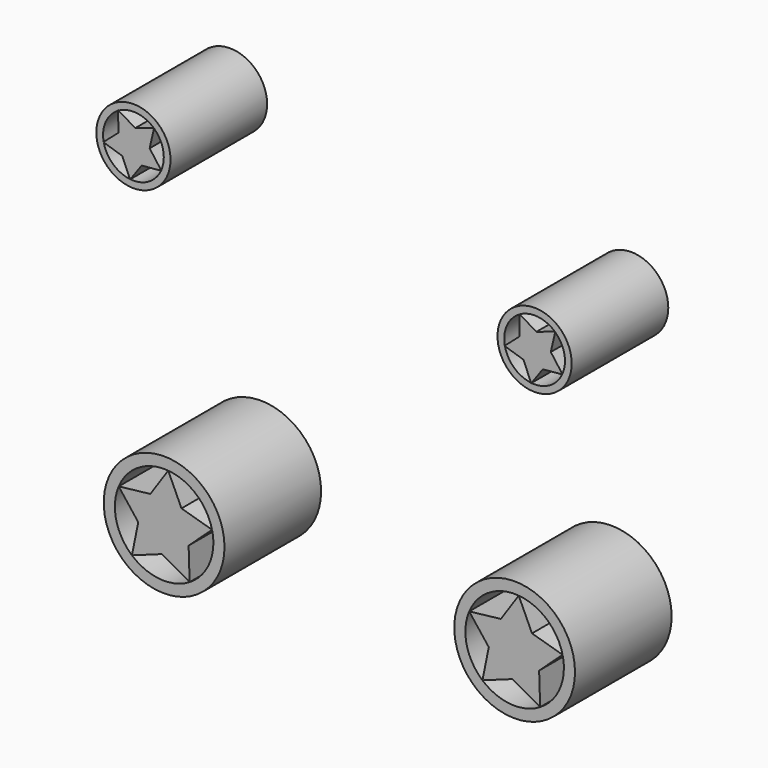
from build123d import *

# Parameters (mm, degrees)
F0_R     = 7.8035976044
F1_DEPTH = 25.4
F0_R_2   = 12.7


with BuildPart() as f1:
    # F0 (on Front) → F1 (new body)
    with BuildSketch(Plane.XZ):
        with Locations((-47.0211860416, 42.674090528)):
            Circle(F0_R)
        with BuildLine():
            ThreePointArc((-42.6920368305, 47.3722329839), (-41.1700651022, 45.238941241), (-40.6325965707, 42.674090528))
            ThreePointArc((-40.6325965707, 42.674090528), (-40.7710648077, 41.3511921991), (-41.1804671129, 40.085639674))
            Line((-41.1804671129, 40.085639674), (-41.1293756872, 40.0162519683))
            Line((-41.1293756872, 40.0162519683), (-41.2152063671, 40.0086308216))
            ThreePointArc((-41.2152063671, 40.0086308216), (-43.8540138331, 37.1258389449), (-47.6780676851, 36.319361428))
            Line((-47.6780676851, 36.319361428), (-47.7282711959, 36.2493286144))
            Line((-47.7282711959, 36.2493286144), (-47.7620424759, 36.3286033779))
            ThreePointArc((-47.7620424759, 36.3286033779), (-51.3191768273, 37.9474267326), (-53.2678801526, 41.3351028089))
            Line((-53.2678801526, 41.3351028089), (-53.3499990543, 41.3612078554))
            Line((-53.3499990543, 41.3612078554), (-53.2850401734, 41.4178235005))
            ThreePointArc((-53.2850401734, 41.4178235005), (-52.844662639, 45.3011032322), (-50.2249736761, 48.2012797071))
            Line((-50.2249736761, 48.2012797071), (-50.2255224376, 48.2874463267))
            Line((-50.2255224376, 48.2874463267), (-50.1516043614, 48.2431619561))
            ThreePointArc((-50.1516043614, 48.2431619561), (-46.3223017258, 49.0243374634), (-42.7545415815, 47.429069022))
            Line((-42.7545415815, 47.429069022), (-42.672761833, 47.4562178751))
            Line((-42.672761833, 47.4562178751), (-42.6920368305, 47.3722329839))
        make_face(mode=Mode.SUBTRACT)
    extrude(amount=F1_DEPTH)


with BuildPart() as f1b:
    # F0 (on Front) → F1, piece 2 (new body)
    with BuildSketch(Plane.XZ):
        with BuildLine():
            ThreePointArc((-41.2152063671, 40.0086308216), (-41.1977094443, 40.0470778238), (-41.1804671129, 40.085639674))
            Line((-41.1804671129, 40.085639674), (-43.6077745206, 43.3821867905))
            ThreePointArc((-43.6077745206, 43.3821867905), (-43.5533180881, 43.0299983605), (-43.5351024901, 42.674090528))
            ThreePointArc((-43.5351024901, 42.674090528), (-44.0064245578, 40.9236643729), (-45.2929443083, 39.6465570369))
            Line((-45.2929443083, 39.6465570369), (-41.2152063671, 40.0086308216))
        make_face()
        with BuildLine():
            ThreePointArc((-43.5351024901, 42.674090528), (-43.5533180881, 43.0299983605), (-43.6077745206, 43.3821867905))
            ThreePointArc((-43.6077745206, 43.3821867905), (-44.6758866526, 45.25330539), (-46.6398234374, 46.1392515766))
            ThreePointArc((-46.6398234374, 46.1392515766), (-48.749427775, 45.7016240191), (-50.1989025112, 44.10758157))
            ThreePointArc((-50.1989025112, 44.10758157), (-50.4345975626, 41.9659942655), (-49.3664854306, 40.094875666))
            ThreePointArc((-49.3664854306, 40.094875666), (-47.4025486458, 39.2089294794), (-45.2929443083, 39.6465570369))
            ThreePointArc((-45.2929443083, 39.6465570369), (-44.0064245578, 40.9236643729), (-43.5351024901, 42.674090528))
        make_face()
        with BuildLine():
            ThreePointArc((-47.7620424759, 36.3286033779), (-47.7200703574, 36.3238435925), (-47.6780676851, 36.319361428))
            Line((-47.6780676851, 36.319361428), (-45.2929443083, 39.6465570369))
            ThreePointArc((-45.2929443083, 39.6465570369), (-47.4025486458, 39.2089294794), (-49.3664854306, 40.094875666))
            Line((-49.3664854306, 40.094875666), (-47.7620424759, 36.3286033779))
        make_face()
        with BuildLine():
            ThreePointArc((-49.3664854306, 40.094875666), (-50.4345975626, 41.9659942655), (-50.1989025112, 44.10758157))
            Line((-50.1989025112, 44.10758157), (-53.2850401734, 41.4178235005))
            ThreePointArc((-53.2850401734, 41.4178235005), (-53.2765969004, 41.3764347891), (-53.2678801526, 41.3351028089))
            Line((-53.2678801526, 41.3351028089), (-49.3664854306, 40.094875666))
        make_face()
        with BuildLine():
            Line((-46.6398234374, 46.1392515766), (-50.1516043614, 48.2431619561))
            ThreePointArc((-50.1516043614, 48.2431619561), (-50.1883582501, 48.2223421111), (-50.2249736761, 48.2012797071))
            Line((-50.2249736761, 48.2012797071), (-50.1989025112, 44.10758157))
            ThreePointArc((-50.1989025112, 44.10758157), (-48.749427775, 45.7016240191), (-46.6398234374, 46.1392515766))
        make_face()
        with BuildLine():
            Line((-43.6077745206, 43.3821867905), (-42.6920368305, 47.3722329839))
            ThreePointArc((-42.6920368305, 47.3722329839), (-42.723195256, 47.4007543234), (-42.7545415815, 47.429069022))
            Line((-42.7545415815, 47.429069022), (-46.6398234374, 46.1392515766))
            ThreePointArc((-46.6398234374, 46.1392515766), (-44.6758866526, 45.25330539), (-43.6077745206, 43.3821867905))
        make_face()
    extrude(amount=F1_DEPTH)


with BuildPart() as f1c:
    # F0 (on Front) → F1, piece 3 (new body)
    with BuildSketch(Plane.XZ):
        with BuildLine():
            ThreePointArc((43.1704565667, 29.7248177096), (43.1879534895, 29.7632647118), (43.2051958208, 29.801826562))
            Line((43.2051958208, 29.801826562), (40.7778884131, 33.0983736784))
            ThreePointArc((40.7778884131, 33.0983736784), (40.8323448457, 32.7461852485), (40.8505604437, 32.390277416))
            ThreePointArc((40.8505604437, 32.390277416), (40.3792383759, 30.6398512609), (39.0927186255, 29.3627439249))
            Line((39.0927186255, 29.3627439249), (43.1704565667, 29.7248177096))
        make_face()
        with BuildLine():
            ThreePointArc((36.6236204579, 26.0447902659), (36.6655925763, 26.0400304805), (36.7075952487, 26.035548316))
            Line((36.7075952487, 26.035548316), (39.0927186255, 29.3627439249))
            ThreePointArc((39.0927186255, 29.3627439249), (36.9831142879, 28.9251163674), (35.0191775031, 29.8110625539))
            Line((35.0191775031, 29.8110625539), (36.6236204579, 26.0447902659))
        make_face()
        with BuildLine():
            ThreePointArc((40.8505604437, 32.390277416), (40.8323448457, 32.7461852485), (40.7778884131, 33.0983736784))
            ThreePointArc((40.7778884131, 33.0983736784), (39.7097762811, 34.969492278), (37.7458394963, 35.8554384646))
            ThreePointArc((37.7458394963, 35.8554384646), (35.6362351587, 35.417810907), (34.1867604225, 33.823768458))
            ThreePointArc((34.1867604225, 33.823768458), (33.9510653711, 31.6821811535), (35.0191775031, 29.8110625539))
            ThreePointArc((35.0191775031, 29.8110625539), (36.9831142879, 28.9251163674), (39.0927186255, 29.3627439249))
            ThreePointArc((39.0927186255, 29.3627439249), (40.3792383759, 30.6398512609), (40.8505604437, 32.390277416))
        make_face()
        with BuildLine():
            ThreePointArc((35.0191775031, 29.8110625539), (33.9510653711, 31.6821811535), (34.1867604225, 33.823768458))
            Line((34.1867604225, 33.823768458), (31.1006227604, 31.1340103884))
            ThreePointArc((31.1006227604, 31.1340103884), (31.1090660334, 31.0926216771), (31.1177827811, 31.0512896969))
            Line((31.1177827811, 31.0512896969), (35.0191775031, 29.8110625539))
        make_face()
        with BuildLine():
            Line((37.7458394963, 35.8554384646), (34.2340585724, 37.9593488441))
            ThreePointArc((34.2340585724, 37.9593488441), (34.1973046836, 37.9385289991), (34.1606892577, 37.917466595))
            Line((34.1606892577, 37.917466595), (34.1867604225, 33.823768458))
            ThreePointArc((34.1867604225, 33.823768458), (35.6362351587, 35.417810907), (37.7458394963, 35.8554384646))
        make_face()
        with BuildLine():
            Line((40.7778884131, 33.0983736784), (41.6936261032, 37.0884198719))
            ThreePointArc((41.6936261032, 37.0884198719), (41.6624676778, 37.1169412113), (41.6311213523, 37.14525591))
            Line((41.6311213523, 37.14525591), (37.7458394963, 35.8554384646))
            ThreePointArc((37.7458394963, 35.8554384646), (39.7097762811, 34.969492278), (40.7778884131, 33.0983736784))
        make_face()
    extrude(amount=F1_DEPTH)


with BuildPart() as f1d:
    # F0 (on Front) → F1, piece 4 (new body)
    with BuildSketch(Plane.XZ):
        with Locations((37.3644768921, 32.390277416)):
            Circle(F0_R)
        with BuildLine():
            ThreePointArc((41.6936261032, 37.0884198719), (43.2155978316, 34.9551281289), (43.753066363, 32.390277416))
            ThreePointArc((43.753066363, 32.390277416), (43.6145981261, 31.0673790871), (43.2051958208, 29.801826562))
            Line((43.2051958208, 29.801826562), (43.2562872465, 29.7324388563))
            Line((43.2562872465, 29.7324388563), (43.1704565667, 29.7248177096))
            ThreePointArc((43.1704565667, 29.7248177096), (40.5316491006, 26.8420258328), (36.7075952487, 26.035548316))
            Line((36.7075952487, 26.035548316), (36.6573917378, 25.9655155024))
            Line((36.6573917378, 25.9655155024), (36.6236204579, 26.0447902659))
            ThreePointArc((36.6236204579, 26.0447902659), (33.0664861065, 27.6636136206), (31.1177827811, 31.0512896969))
            Line((31.1177827811, 31.0512896969), (31.0356638794, 31.0773947434))
            Line((31.0356638794, 31.0773947434), (31.1006227604, 31.1340103884))
            ThreePointArc((31.1006227604, 31.1340103884), (31.5410002948, 35.0172901202), (34.1606892577, 37.917466595))
            Line((34.1606892577, 37.917466595), (34.1601404961, 38.0036332147))
            Line((34.1601404961, 38.0036332147), (34.2340585724, 37.9593488441))
            ThreePointArc((34.2340585724, 37.9593488441), (38.0633612079, 38.7405243514), (41.6311213523, 37.14525591))
            Line((41.6311213523, 37.14525591), (41.7129011007, 37.1724047631))
            Line((41.7129011007, 37.1724047631), (41.6936261032, 37.0884198719))
        make_face(mode=Mode.SUBTRACT)
    extrude(amount=F1_DEPTH)


with BuildPart() as f1e:
    # F0 (on Front) → F1, piece 5 (new body)
    with BuildSketch(Plane.XZ):
        with Locations((-40.5652014311, -25.3579147756)):
            Circle(F0_R_2)
        with BuildLine():
            ThreePointArc((-30.4784917314, -22.9882899115), (-30.2727672128, -24.1651732175), (-30.2038871051, -25.3579147756))
            ThreePointArc((-30.2038871051, -25.3579147756), (-31.5373713373, -30.4427076289), (-35.1945895483, -34.2186914102))
            ThreePointArc((-35.1945895483, -34.2186914102), (-41.4285189774, -35.6832001168), (-47.3326904468, -33.2038007667))
            ThreePointArc((-47.3326904468, -33.2038007667), (-50.6519111307, -27.7275396398), (-50.1183515441, -21.3461623554))
            ThreePointArc((-50.1183515441, -21.3461623554), (-45.9358133139, -16.4971381411), (-39.7018838848, -15.0326294345))
            ThreePointArc((-39.7018838848, -15.0326294345), (-33.7977124154, -17.5120287846), (-30.4784917314, -22.9882899115))
        make_face(mode=Mode.SUBTRACT)
    extrude(amount=F1_DEPTH)


with BuildPart() as f1f:
    # F0 (on Front) → F1, piece 6 (new body)
    with BuildSketch(Plane.XZ):
        Polygon((-35.4127609036, -27.5216320324), (-30.4784917314, -22.9882899115), (-36.9151923491, -21.1262780405), (-39.7018838848, -15.0326294345), (-43.4618122867, -20.5789021885), (-50.1183515441, -21.3461623554), (-46.005414474, -26.6359592992), (-47.3326904468, -33.2038007667), (-41.0308271421, -30.9268023175), (-35.1945895483, -34.2186914102), align=None)
    extrude(amount=F1_DEPTH)


with BuildPart() as f1g:
    # F0 (on Front) → F1, piece 7 (new body)
    with BuildSketch(Plane.XZ):
        with Locations((33.1675457677, -24.5250859791)):
            Circle(F0_R_2)
        with BuildLine():
            ThreePointArc((43.2542554674, -22.1554611149), (43.459979986, -23.332344421), (43.5288600937, -24.5250859791))
            ThreePointArc((43.5288600937, -24.5250859791), (42.1953758614, -29.6098788324), (38.5381576505, -33.3858626136))
            ThreePointArc((38.5381576505, -33.3858626136), (32.3042282214, -34.8503713202), (26.400056752, -32.3709719701))
            ThreePointArc((26.400056752, -32.3709719701), (23.080836068, -26.8947108432), (23.6143956547, -20.5133335589))
            ThreePointArc((23.6143956547, -20.5133335589), (27.7969338849, -15.6643093445), (34.030863314, -14.1998006379))
            ThreePointArc((34.030863314, -14.1998006379), (39.9350347834, -16.679199988), (43.2542554674, -22.1554611149))
        make_face(mode=Mode.SUBTRACT)
    extrude(amount=F1_DEPTH)


with BuildPart() as f1h:
    # F0 (on Front) → F1, piece 8 (new body)
    with BuildSketch(Plane.XZ):
        Polygon((38.3199862952, -26.6888032358), (43.2542554674, -22.1554611149), (36.8175548497, -20.293449244), (34.030863314, -14.1998006379), (30.2709349121, -19.7460733919), (23.6143956547, -20.5133335589), (27.7273327248, -25.8031305027), (26.400056752, -32.3709719701), (32.7019200567, -30.0939735209), (38.5381576505, -33.3858626136), align=None)
    extrude(amount=F1_DEPTH)


solid = Compound([f1.part, f1b.part, f1c.part, f1d.part, f1e.part, f1f.part, f1g.part, f1h.part])
